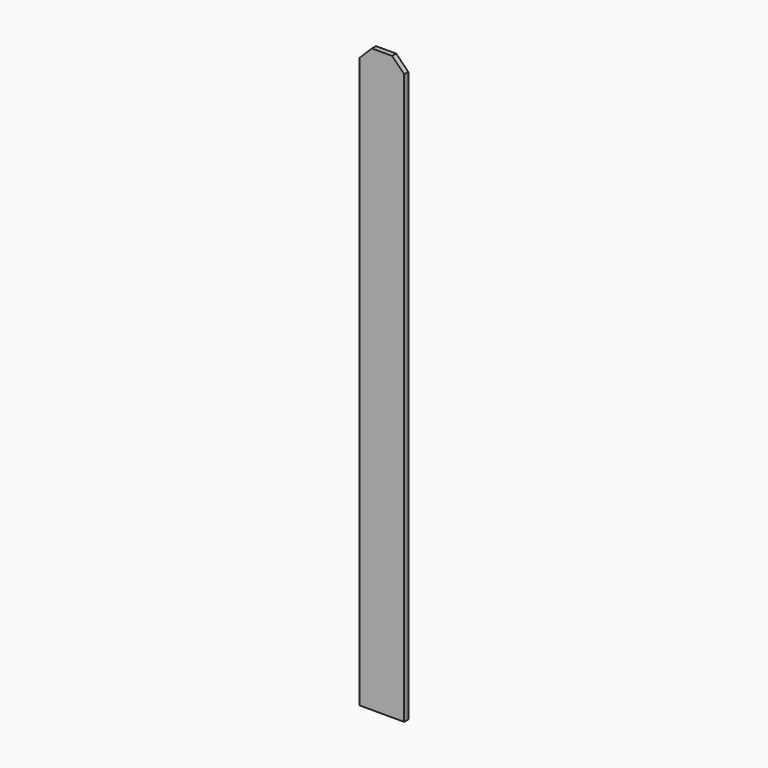
from build123d import *

# Parameters (mm, degrees)
F0_W     = 139.7
F0_H     = 1828.8
F1_DEPTH = 15.875
F2_SIZE  = 38.1


with BuildPart() as f1:
    # F0 (on Front) → F1 (new body)
    with BuildSketch(Plane.XZ):
        with Locations((69.85, 914.4)):
            Rectangle(F0_W, F0_H)
    extrude(amount=F1_DEPTH)

    # F2
    f2_edges = [f1.edges().sort_by_distance(p)[0] for p in [
        (0, -7.9375, 1828.8),
        (139.7, -7.9375, 1828.8),
    ]]
    chamfer(f2_edges, length=F2_SIZE)


solid = f1.part
